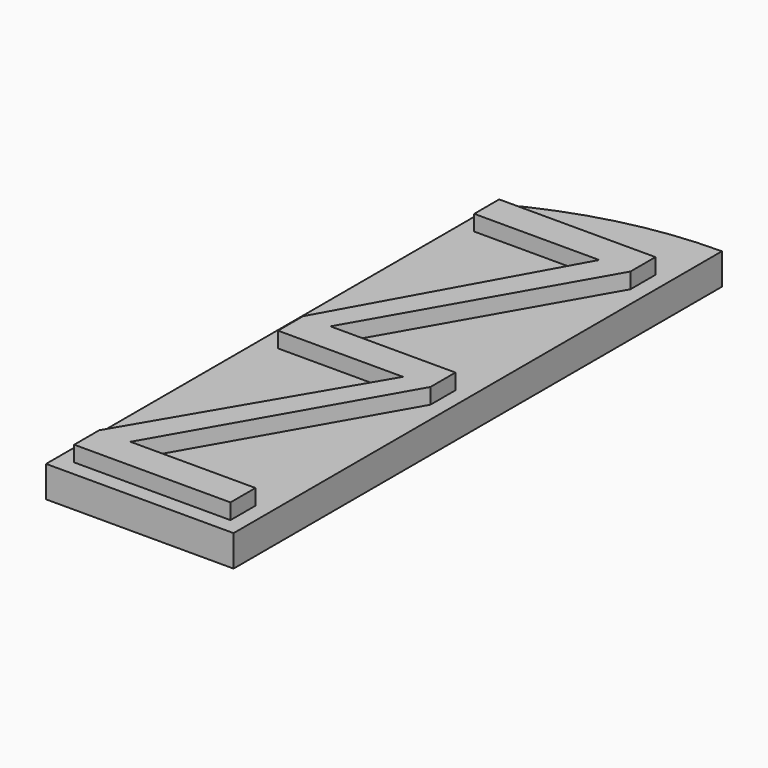
from build123d import *

# Parameters (mm, degrees)
PAD_DEPTH    = 1
PAD001_DEPTH = 0.5


with BuildPart() as part:
    # Sketch → Pad (new body)
    with BuildSketch(Plane.XY):
        with BuildLine():
            Line((-3, -16), (3, -16))
            Line((3, -16), (3, 3.534144))
            ThreePointArc((3, 3.534144), (-0.096514, 3.144536), (-3, 2))
            Line((-3, -16), (-3, 2))
        make_face()
    extrude(amount=PAD_DEPTH)

    # Sketch001 → Pad001 (new body)
    with BuildSketch(Plane.XY.offset(1)):
        Polygon((-2.5, 1.5), (2.5, 1.5), (2.5, 0.5), (-1.5, -6.5), (2.5, -6.5), (2.5, -7.5), (-1.5, -14.5), (2.5, -14.5), (2.5, -15.5), (-2.5, -15.5), (-2.5, -14.5), (1.621962, -7.5), (-2.378038, -7.5), (-2.378038, -6.5), (1.5, 0.5), (-2.5, 0.5), align=None)
    extrude(amount=PAD001_DEPTH)


solid = part.part
